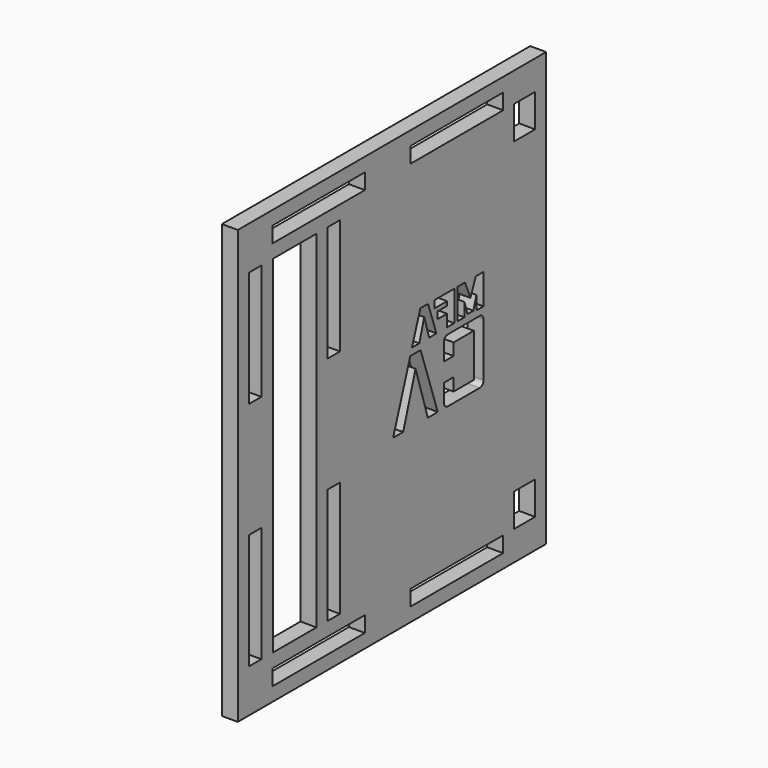
from build123d import *

# Parameters (mm, degrees)
F0_W     = 140
F0_H     = 157.3
F0_W_2   = 5.7
F0_H_2   = 42
F0_W_3   = 42
F0_H_3   = 5.7
F0_W_4   = 9.525
F0_H_4   = 12
F0_W_5   = 19.719037
F0_H_5   = 125.9
F1_DEPTH = 5.8


with BuildPart() as f1:
    # F0 (on Right) → F1 (new body)
    with BuildSketch(Plane.YZ):
        Rectangle(F0_W, F0_H)
        with Locations((-62.15, -41.95)):
            Rectangle(F0_W_2, F0_H_2, mode=Mode.SUBTRACT)
        with Locations((-33.3, -70.8)):
            Rectangle(F0_W_3, F0_H_3, mode=Mode.SUBTRACT)
        with Locations((-26.45, -41.95)):
            Rectangle(F0_W_2, F0_H_2, mode=Mode.SUBTRACT)
        with Locations((29.475, -70.8)):
            Rectangle(F0_W_3, F0_H_3, mode=Mode.SUBTRACT)
        with Locations((60.2375, -61.95)):
            Rectangle(F0_W_4, F0_H_4, mode=Mode.SUBTRACT)
        Polygon((5.084475, -16.499415), (0.537139, -16.43919), (8.306721, 6.508208), (13.00455, 6.508208), (20.774202, -16.43919), (16.257049, -16.499415), (10.685818, 1.479072), align=None, mode=Mode.SUBTRACT)
        with BuildLine():
            Line((25.34413, 6.508206), (39.782841, 6.508207))
            ThreePointArc((39.782841, 6.508207), (41.055633, 5.981), (41.582841, 4.708207))
            Line((41.582841, 4.708207), (41.582841, -14.699417))
            ThreePointArc((41.582841, -14.699417), (41.055633, -15.972209), (39.782841, -16.499417))
            Line((39.782841, -16.499417), (25.34413, -16.499416))
            ThreePointArc((25.34413, -16.499416), (24.071338, -15.972208), (23.54413, -14.699416))
            Line((23.54413, -14.699416), (23.54413, -8.248033))
            Line((23.54413, -8.248033), (27.971016, -8.248033))
            Line((27.971016, -8.248033), (27.971016, -12.855594))
            Line((27.971016, -12.855594), (37.155955, -12.855594))
            Line((37.155955, -12.855594), (37.155955, 2.864386))
            Line((37.155955, 2.864386), (27.971016, 2.864386))
            Line((27.971016, 2.864386), (27.971016, -1.472232))
            Line((27.971016, -1.472232), (23.54413, -1.472232))
            Line((23.54413, -1.472232), (23.54413, 4.708206))
            ThreePointArc((23.54413, 4.708206), (24.071338, 5.980998), (25.34413, 6.508206))
        make_face(mode=Mode.SUBTRACT)
        with Locations((-44.159518, 0)):
            Rectangle(F0_W_5, F0_H_5, mode=Mode.SUBTRACT)
        with Locations((-62.15, 41.95)):
            Rectangle(F0_W_2, F0_H_2, mode=Mode.SUBTRACT)
        with Locations((-26.45, 41.95)):
            Rectangle(F0_W_2, F0_H_2, mode=Mode.SUBTRACT)
        with Locations((-33.3, 70.8)):
            Rectangle(F0_W_3, F0_H_3, mode=Mode.SUBTRACT)
        Polygon((16.363741, 19.928689), (20.179323, 8.915522), (16.855157, 8.886603), (14.62936, 16.402229), (12.418023, 8.886603), (9.064938, 8.915522), (12.88059, 19.928689), align=None, mode=Mode.SUBTRACT)
        Polygon((20.655928, 13.251439), (20.655928, 15.766287), (25.020764, 15.766287), (25.020764, 17.269385), (19.384044, 17.269385), (19.384044, 19.928689), (28.287162, 19.928689), (28.287162, 8.886603), (25.020764, 8.886603), (25.020764, 13.251439), align=None, mode=Mode.SUBTRACT)
        Polygon((38.345925, 13.815083), (36.944045, 9.363489), (34.313589, 9.363489), (32.911639, 13.815083), (32.911639, 8.886603), (29.746389, 8.886603), (29.746389, 19.928689), (33.186231, 19.928689), (35.599863, 14.002917), (38.085792, 19.928689), (41.554554, 19.928689), (41.554554, 8.886603), (38.345925, 8.886603), align=None, mode=Mode.SUBTRACT)
        with Locations((29.475, 70.8)):
            Rectangle(F0_W_3, F0_H_3, mode=Mode.SUBTRACT)
        with Locations((60.2375, 61.95)):
            Rectangle(F0_W_4, F0_H_4, mode=Mode.SUBTRACT)
    extrude(amount=F1_DEPTH)


solid = f1.part
